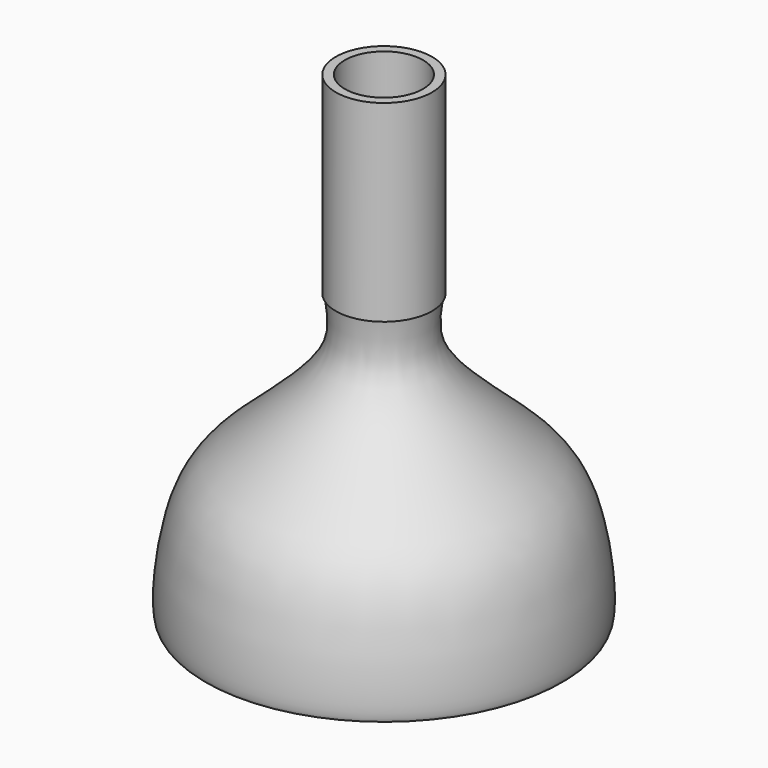
from build123d import *

# Parameters (mm, degrees)
F0_R     = 6.35
F0_R_2   = 5.159236224
F1_DEPTH = 25.4


with BuildPart() as f1:
    # F0 (on Top) → F1 (new body)
    with BuildSketch(Plane.XY):
        Circle(F0_R)
        Circle(F0_R_2, mode=Mode.SUBTRACT)
    extrude(amount=-F1_DEPTH)

    # F2 (on Front) → F3 (revolve)
    with BuildSketch(Plane.XZ):
        with BuildLine():
            Line((-4.1922661476, -25.1300428063), (-6.1774905771, -25.2033080906))
            add(Edge.make_bspline(
                [(-6.1774905771, -25.2033080906), (-5.8816901728, -27.1447096862), (-5.265303085, -31.1901905517), (-9.7481884082, -36.7369563101), (-16.6138781886, -42.8504666243), (-23.2235490745, -48.7039542033), (-24.2056607787, -63.0380862229), (-23.3609294322, -62.977042473), (-23.2354998589, -62.9679784179)],
                knots=[0, 0, 0, 0, 0.156554679, 0.3262276903, 0.5234958336, 0.7281329257, 0.9596319336, 1, 1, 1, 1], degree=3))
            Line((-23.2354998589, -62.9679784179), (-20.4945225269, -62.9679784179))
            add(Edge.make_bspline(
                [(-20.4945225269, -62.9679784179), (-20.6448482141, -60.624451722), (-20.9589297237, -55.7280270615), (-18.2599448452, -46.8433730683), (-6.1501049149, -41.3581316698), (-3.0279588772, -30.9205125456), (-3.8334857362, -24.9599734502), (-4.1873255513, -25.1639760168), (-4.1910948215, -25.1380877569), (-4.1922661476, -25.1300428063)],
                knots=[0, 0, 0, 0, 0.1774907083, 0.3708384814, 0.6049164544, 0.8251216274, 0.9695417285, 0.9905348876, 1, 1, 1, 1], degree=3))
        make_face()
    revolve(axis=Axis((0, 0, -40.8029872924), (0, 0, -1)))


with BuildPart() as f4:
    # F2 (on Front) → F4 (revolve)
    with BuildSketch(Plane.XZ):
        Polygon((-20.6448482141, -59.0007714927), (-20.4945225269, -62.9679784179), (0, -62.9679784179), (0, -59.0007714927), align=None)
    revolve(axis=Axis((0, 0, -40.8029872924), (0, 0, -1)))


solid = Compound([f1.part, f4.part])
